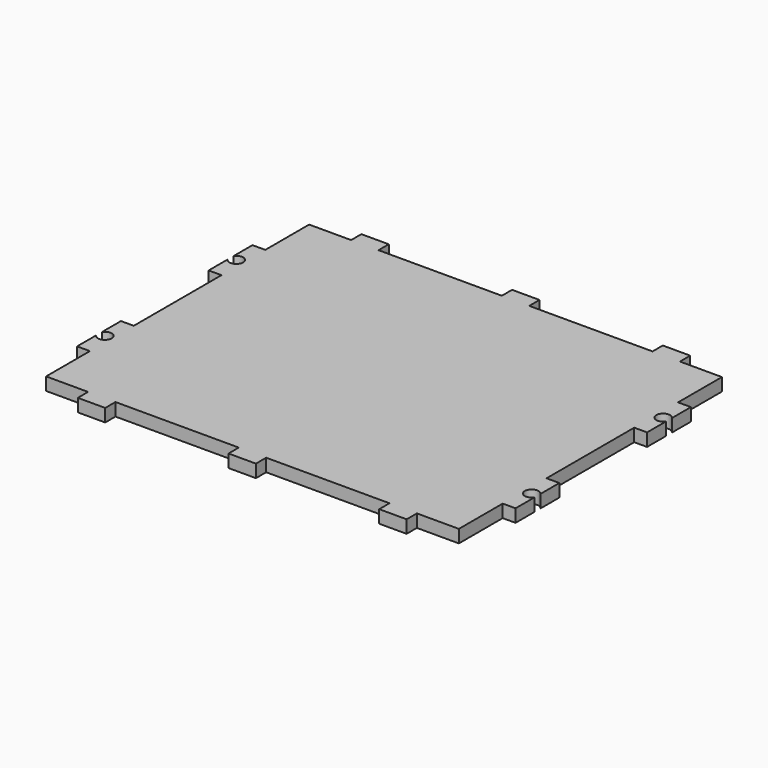
from build123d import *

# Parameters (mm, degrees)
F1_DEPTH = 2.9718


with BuildPart() as f1:
    # F0 (on Top) → F1 (new body)
    with BuildSketch(Plane.XY):
        with BuildLine():
            Line((47.8282, 25.4), (47.8282, 38.1))
            Line((47.8282, 38.1), (38.1, 38.1))
            Line((38.1, 38.1), (38.1, 41.0718))
            Line((38.1, 41.0718), (31.75, 41.0718))
            Line((31.75, 41.0718), (31.75, 38.1))
            Line((31.75, 38.1), (3.175, 38.1))
            Line((3.175, 38.1), (3.175, 41.0718))
            Line((3.175, 41.0718), (-3.175, 41.0718))
            Line((-3.175, 41.0718), (-3.175, 38.1))
            Line((-3.175, 38.1), (-31.75, 38.1))
            Line((-31.75, 38.1), (-31.75, 41.0718))
            Line((-31.75, 41.0718), (-38.1, 41.0718))
            Line((-38.1, 41.0718), (-38.1, 38.1))
            Line((-38.1, 38.1), (-47.8282, 38.1))
            Line((-47.8282, 38.1), (-47.8282, 25.4))
            Line((-47.8282, 25.4), (-50.8, 25.4))
            Line((-50.8, 25.4), (-50.8, 19.891369))
            ThreePointArc((-50.8, 19.891369), (-47.8663, 19.05), (-50.8, 18.208631))
            Line((-50.8, 18.208631), (-50.8, 12.7))
            Line((-50.8, 12.7), (-47.8282, 12.7))
            Line((-47.8282, 12.7), (-47.8282, 0))
            Line((-47.8282, 0), (-47.8282, -12.7))
            Line((-47.8282, -12.7), (-50.8, -12.7))
            Line((-50.8, -12.7), (-50.8, -18.208631))
            ThreePointArc((-50.8, -18.208631), (-47.8663, -19.05), (-50.8, -19.891369))
            Line((-50.8, -19.891369), (-50.8, -25.4))
            Line((-50.8, -25.4), (-47.8282, -25.4))
            Line((-47.8282, -25.4), (-47.8282, -38.1))
            Line((-47.8282, -38.1), (-38.1, -38.1))
            Line((-38.1, -38.1), (-38.1, -41.0718))
            Line((-38.1, -41.0718), (-31.75, -41.0718))
            Line((-31.75, -41.0718), (-31.75, -38.1))
            Line((-31.75, -38.1), (-3.175, -38.1))
            Line((-3.175, -38.1), (-3.175, -41.0718))
            Line((-3.175, -41.0718), (3.175, -41.0718))
            Line((3.175, -41.0718), (3.175, -38.1))
            Line((3.175, -38.1), (31.75, -38.1))
            Line((31.75, -38.1), (31.75, -41.0718))
            Line((31.75, -41.0718), (38.1, -41.0718))
            Line((38.1, -41.0718), (38.1, -38.1))
            Line((38.1, -38.1), (47.8282, -38.1))
            Line((47.8282, -38.1), (47.8282, -25.4))
            Line((47.8282, -25.4), (50.8, -25.4))
            Line((50.8, -25.4), (50.8, -19.891369))
            ThreePointArc((50.8, -19.891369), (47.8663, -19.05), (50.8, -18.208631))
            Line((50.8, -18.208631), (50.8, -12.7))
            Line((50.8, -12.7), (47.8282, -12.7))
            Line((47.8282, -12.7), (47.8282, 0))
            Line((47.8282, 0), (47.8282, 12.7))
            Line((47.8282, 12.7), (50.8, 12.7))
            Line((50.8, 12.7), (50.8, 18.208631))
            ThreePointArc((50.8, 18.208631), (47.8663, 19.05), (50.8, 19.891369))
            Line((50.8, 19.891369), (50.8, 25.4))
            Line((50.8, 25.4), (47.8282, 25.4))
        make_face()
    extrude(amount=F1_DEPTH)


solid = f1.part
